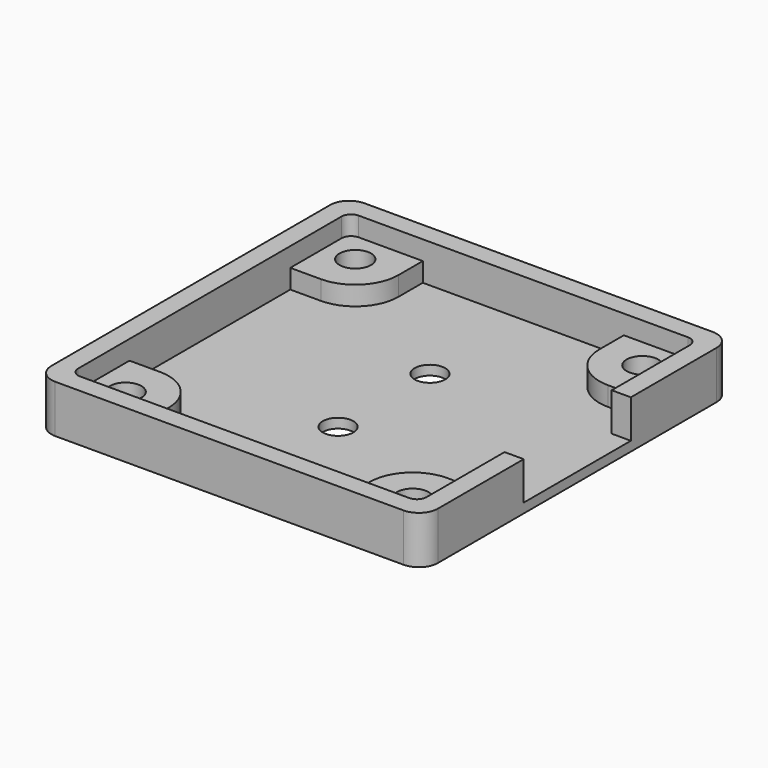
from build123d import *

# Parameters (mm, degrees)
F0_R     = 1.6
F0_R_2   = 1.65
F0_W     = 2
F0_H     = 7
F1_DEPTH = 1
F2_DEPTH = 5
F3_DEPTH = 3
F4_R     = 2
F5_R     = 1


with BuildPart() as f1:
    # F0 (on Top) → F1 (new body)
    with BuildSketch(Plane.XY):
        with BuildLine():
            Line((-17.411994, -1.24302), (-17.411994, -4.438214))
            Line((-17.411994, -4.438214), (3.597618, -4.438214))
            Line((3.597618, -4.438214), (3.597618, -1.24302))
            ThreePointArc((3.597618, -1.24302), (4.915637, 1.93896), (8.097618, 3.25698))
            Line((8.097618, 3.25698), (11.292812, 3.25698))
            Line((11.292812, 3.25698), (11.292812, 6.761786))
            Line((11.292812, 6.761786), (11.292812, 13.761786))
            Line((11.292812, 13.761786), (11.292812, 20.761786))
            Line((11.292812, 20.761786), (11.292812, 24.266591))
            Line((11.292812, 24.266591), (8.097618, 24.266591))
            ThreePointArc((8.097618, 24.266591), (4.915637, 25.584611), (3.597618, 28.766591))
            Line((3.597618, 28.766591), (3.597618, 31.961786))
            Line((3.597618, 31.961786), (-17.411994, 31.961786))
            Line((-17.411994, 31.961786), (-17.411994, 28.766591))
            ThreePointArc((-17.411994, 28.766591), (-18.730013, 25.584611), (-21.911994, 24.266591))
            Line((-21.911994, 24.266591), (-25.107188, 24.266591))
            Line((-25.107188, 24.266591), (-25.107188, 3.25698))
            Line((-25.107188, 3.25698), (-21.911994, 3.25698))
            ThreePointArc((-21.911994, 3.25698), (-18.730013, 1.93896), (-17.411994, -1.24302))
        make_face()
        with Locations((-6.907188, 7.761786)):
            Circle(F0_R, mode=Mode.SUBTRACT)
        with Locations((-6.907188, 19.761786)):
            Circle(F0_R, mode=Mode.SUBTRACT)
        Polygon((-17.411994, -4.438214), (-25.107188, -4.438214), (-25.107188, 3.25698), (-25.107188, 24.266591), (-25.107188, 31.961786), (-17.411994, 31.961786), (3.597618, 31.961786), (11.292812, 31.961786), (11.292812, 24.266591), (11.292812, 20.761786), (13.292812, 20.761786), (13.292812, 33.961786), (-27.107188, 33.961786), (-27.107188, -6.438214), (13.292812, -6.438214), (13.292812, 6.761786), (11.292812, 6.761786), (11.292812, 3.25698), (11.292812, -4.438214), (3.597618, -4.438214), align=None)
        with BuildLine():
            Line((-17.411994, -1.24302), (-17.411994, -4.438214))
            Line((-17.411994, -4.438214), (3.597618, -4.438214))
            Line((3.597618, -4.438214), (3.597618, -1.24302))
            ThreePointArc((3.597618, -1.24302), (4.915637, 1.93896), (8.097618, 3.25698))
            Line((8.097618, 3.25698), (11.292812, 3.25698))
            Line((11.292812, 3.25698), (11.292812, 6.761786))
            Line((11.292812, 6.761786), (11.292812, 13.761786))
            Line((11.292812, 13.761786), (11.292812, 20.761786))
            Line((11.292812, 20.761786), (11.292812, 24.266591))
            Line((11.292812, 24.266591), (8.097618, 24.266591))
            ThreePointArc((8.097618, 24.266591), (4.915637, 25.584611), (3.597618, 28.766591))
            Line((3.597618, 28.766591), (3.597618, 31.961786))
            Line((3.597618, 31.961786), (-17.411994, 31.961786))
            Line((-17.411994, 31.961786), (-17.411994, 28.766591))
            ThreePointArc((-17.411994, 28.766591), (-18.730013, 25.584611), (-21.911994, 24.266591))
            Line((-21.911994, 24.266591), (-25.107188, 24.266591))
            Line((-25.107188, 24.266591), (-25.107188, 3.25698))
            Line((-25.107188, 3.25698), (-21.911994, 3.25698))
            ThreePointArc((-21.911994, 3.25698), (-18.730013, 1.93896), (-17.411994, -1.24302))
        make_face()
        with Locations((-6.907188, 7.761786)):
            Circle(F0_R, mode=Mode.SUBTRACT)
        with Locations((-6.907188, 19.761786)):
            Circle(F0_R, mode=Mode.SUBTRACT)
        with BuildLine():
            Line((-25.107188, 31.961786), (-25.107188, 24.266591))
            Line((-25.107188, 24.266591), (-21.911994, 24.266591))
            ThreePointArc((-21.911994, 24.266591), (-18.730013, 25.584611), (-17.411994, 28.766591))
            Line((-17.411994, 28.766591), (-17.411994, 31.961786))
            Line((-17.411994, 31.961786), (-25.107188, 31.961786))
        make_face()
        with Locations((-21.911994, 28.766591)):
            Circle(F0_R_2, mode=Mode.SUBTRACT)
        with BuildLine():
            Line((11.292812, 31.961786), (3.597618, 31.961786))
            Line((3.597618, 31.961786), (3.597618, 28.766591))
            ThreePointArc((3.597618, 28.766591), (4.915637, 25.584611), (8.097618, 24.266591))
            Line((8.097618, 24.266591), (11.292812, 24.266591))
            Line((11.292812, 24.266591), (11.292812, 31.961786))
        make_face()
        with Locations((8.097618, 28.766591)):
            Circle(F0_R_2, mode=Mode.SUBTRACT)
        with Locations((12.292812, 17.261786)):
            Rectangle(F0_W, F0_H)
        with Locations((12.292812, 10.261786)):
            Rectangle(F0_W, F0_H)
    extrude(amount=F1_DEPTH)

    # F0 (on Top) → F2 (join)
    with BuildSketch(Plane.XY):
        Polygon((-17.411994, -4.438214), (-25.107188, -4.438214), (-25.107188, 3.25698), (-25.107188, 24.266591), (-25.107188, 31.961786), (-17.411994, 31.961786), (3.597618, 31.961786), (11.292812, 31.961786), (11.292812, 24.266591), (11.292812, 20.761786), (13.292812, 20.761786), (13.292812, 33.961786), (-27.107188, 33.961786), (-27.107188, -6.438214), (13.292812, -6.438214), (13.292812, 6.761786), (11.292812, 6.761786), (11.292812, 3.25698), (11.292812, -4.438214), (3.597618, -4.438214), align=None)
    extrude(amount=F2_DEPTH)

    # F0 (on Top) → F3 (join)
    with BuildSketch(Plane.XY):
        with BuildLine():
            Line((-25.107188, 31.961786), (-25.107188, 24.266591))
            Line((-25.107188, 24.266591), (-21.911994, 24.266591))
            ThreePointArc((-21.911994, 24.266591), (-18.730013, 25.584611), (-17.411994, 28.766591))
            Line((-17.411994, 28.766591), (-17.411994, 31.961786))
            Line((-17.411994, 31.961786), (-25.107188, 31.961786))
        make_face()
        with Locations((-21.911994, 28.766591)):
            Circle(F0_R_2, mode=Mode.SUBTRACT)
        with BuildLine():
            Line((-25.107188, 3.25698), (-25.107188, -4.438214))
            Line((-25.107188, -4.438214), (-17.411994, -4.438214))
            Line((-17.411994, -4.438214), (-17.411994, -1.24302))
            ThreePointArc((-17.411994, -1.24302), (-18.730013, 1.93896), (-21.911994, 3.25698))
            Line((-21.911994, 3.25698), (-25.107188, 3.25698))
        make_face()
        with Locations((-21.911994, -1.24302)):
            Circle(F0_R_2, mode=Mode.SUBTRACT)
        with BuildLine():
            Line((11.292812, 31.961786), (3.597618, 31.961786))
            Line((3.597618, 31.961786), (3.597618, 28.766591))
            ThreePointArc((3.597618, 28.766591), (4.915637, 25.584611), (8.097618, 24.266591))
            Line((8.097618, 24.266591), (11.292812, 24.266591))
            Line((11.292812, 24.266591), (11.292812, 31.961786))
        make_face()
        with Locations((8.097618, 28.766591)):
            Circle(F0_R_2, mode=Mode.SUBTRACT)
        with BuildLine():
            Line((3.597618, -1.24302), (3.597618, -4.438214))
            Line((3.597618, -4.438214), (11.292812, -4.438214))
            Line((11.292812, -4.438214), (11.292812, 3.25698))
            Line((11.292812, 3.25698), (8.097618, 3.25698))
            ThreePointArc((8.097618, 3.25698), (4.915637, 1.93896), (3.597618, -1.24302))
        make_face()
        with Locations((8.097618, -1.24302)):
            Circle(F0_R_2, mode=Mode.SUBTRACT)
    extrude(amount=F3_DEPTH)

    # F4
    f4_edges = [f1.edges().sort_by_distance(p)[0] for p in [
        (-27.107188, -6.438214, 2.5),
        (13.292812, -6.438214, 2.5),
        (13.292812, 33.961786, 2.5),
        (-27.107188, 33.961786, 2.5),
    ]]
    fillet(f4_edges, radius=F4_R)

    # F5
    f5_edges = [f1.edges().sort_by_distance(p)[0] for p in [
        (-25.107188, 31.961786, 4),
        (11.292812, 31.961786, 4),
        (11.292812, -4.438214, 4),
        (-25.107188, -4.438214, 4),
    ]]
    fillet(f5_edges, radius=F5_R)


solid = f1.part
